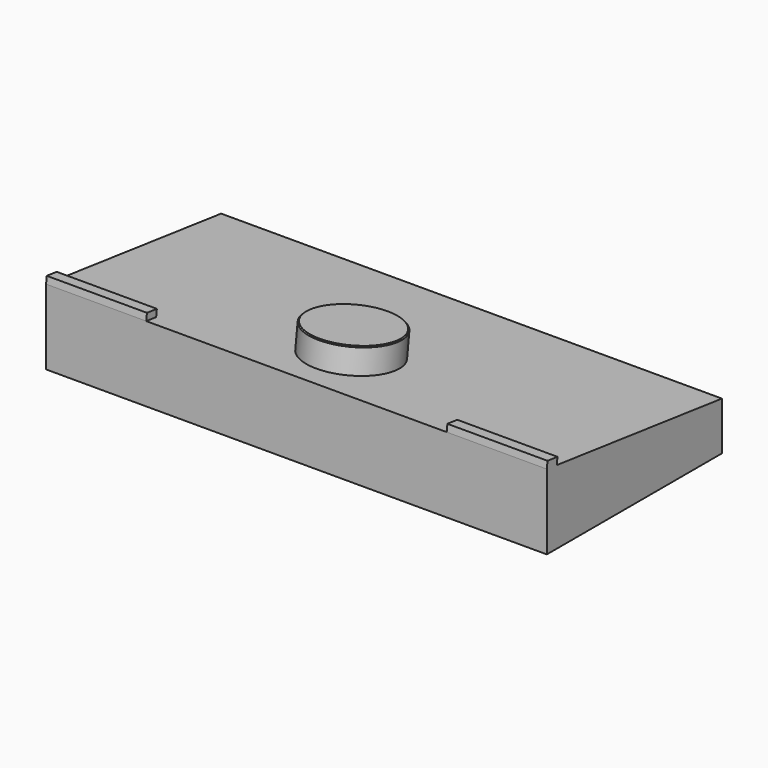
from build123d import *

# Parameters (mm, degrees)
F1_DEPTH = 127
F2_R     = 11.1125
F3_DEPTH = 6.35
F4_SIZE  = 0.254
F2_W     = 25.4
F2_H     = 3.175
F5_DEPTH = 1.778


with BuildPart() as f1:
    # F0 (on Right) → F1 (new body)
    with BuildSketch(Plane.YZ):
        Polygon((-55.499, 36.88551), (0, 36.88551), (0, 49.121089), (-55.499, 55.93551), align=None)
    extrude(amount=F1_DEPTH)

    # F2 (on face) → F3 (join)
    with BuildSketch(Plane(origin=(0, 5.941734, 48.391536), x_dir=(1, 0, 0), z_dir=(0, 0.121869, 0.992546))):
        with Locations((63.5, -44.439643)):
            Circle(F2_R)
    extrude(amount=F3_DEPTH)

    # F4
    f4_edges = [f1.edges().sort_by_distance(p)[0] for p in [
        (52.3875, -37.392792, 60.110034),
    ]]
    chamfer(f4_edges, length=F4_SIZE)

    # F2 (on face) → F5 (join)
    with BuildSketch(Plane(origin=(0, 5.941734, 48.391536), x_dir=(1, 0, 0), z_dir=(0, 0.121869, 0.992546))):
        with Locations((114.3, -60.314643)):
            Rectangle(F2_W, F2_H)
        with Locations((12.7, -60.314643)):
            Rectangle(F2_W, F2_H)
    extrude(amount=F5_DEPTH)


solid = f1.part
